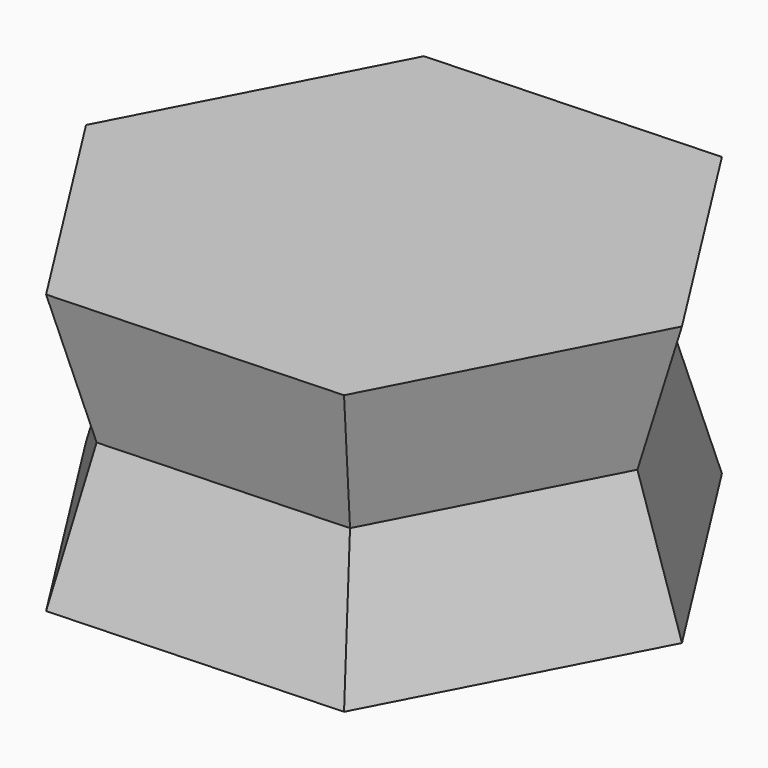
from build123d import *

# Parameters (mm, degrees)
F1_DEPTH = 12.5
F1_TAPER = -15


with BuildPart() as f1:
    # F0 (on Top) → F1 (new body, symmetric)
    with BuildSketch(Plane.XY):
        Polygon((2.8201816698, 47.4896142352), (-8.9836634141, 66.0548839945), (-30.9635811957, 65.1150891691), (-41.1396538934, 45.6100245845), (-29.3358088095, 27.0447548252), (-7.3558910279, 27.9845496506), align=None)
    extrude(amount=F1_DEPTH, both=True, taper=F1_TAPER)


solid = f1.part
